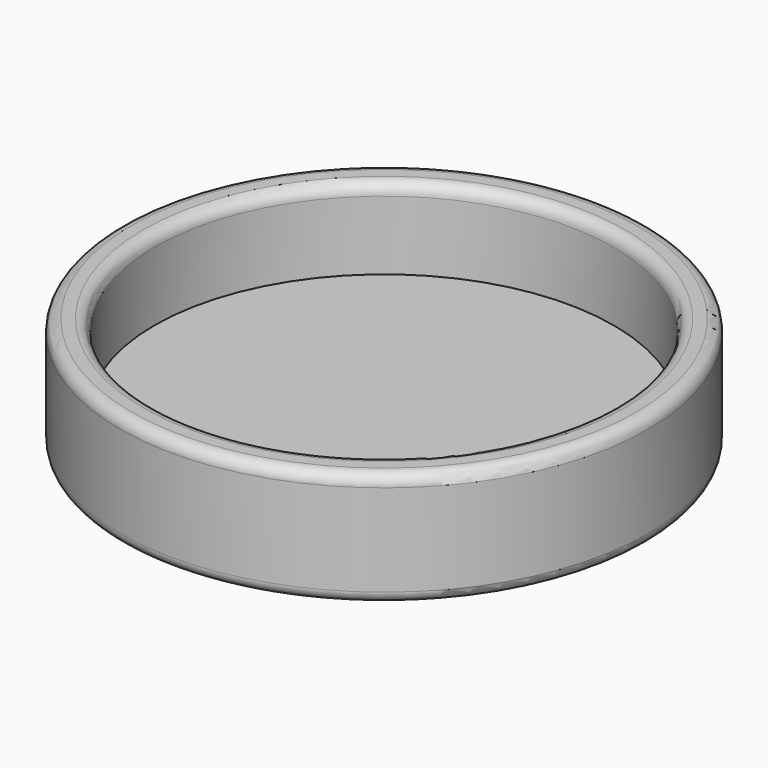
from build123d import *

# Parameters (mm, degrees)
F0_R     = 23
F0_R_2   = 20
F1_DEPTH = 10
F2_R     = 23
F3_DEPTH = 3
F4_R     = 1
F5_R     = 1
F6_R     = 1


with BuildPart() as f1:
    # F0 (on Top) → F1 (new body)
    with BuildSketch(Plane.XY):
        Circle(F0_R)
        Circle(F0_R_2, mode=Mode.SUBTRACT)
    extrude(amount=F1_DEPTH)

    # F2 (on face) → F3 (join)
    with BuildSketch(Plane(origin=(0, 0, 0), x_dir=(1, 0, 0), z_dir=(0, 0, -1))):
        Circle(F2_R)
    extrude(amount=-F3_DEPTH)

    # F4
    f4_edges = [f1.edges().sort_by_distance(p)[0] for p in [
        (-23, 0, 10),
    ]]
    fillet(f4_edges, radius=F4_R)

    # F5
    f5_edges = [f1.edges().sort_by_distance(p)[0] for p in [
        (-20, 0, 10),
    ]]
    fillet(f5_edges, radius=F5_R)

    # F6
    f6_edges = [f1.edges().sort_by_distance(p)[0] for p in [
        (-23, 0, 0),
    ]]
    fillet(f6_edges, radius=F6_R)


solid = f1.part
